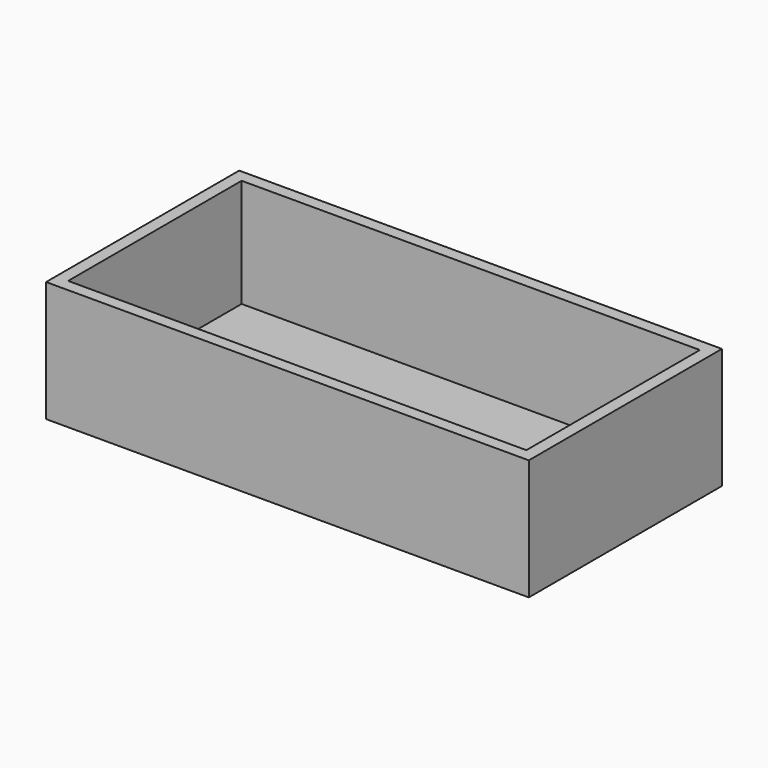
from build123d import *

# Parameters (mm, degrees)
F0_W     = 100
F0_H     = 50
F1_DEPTH = 25
F2_T     = -2.54
F3_R     = 7.874883
F4_DEPTH = 25.4


with BuildPart() as f1:
    # F0 (on Top) → F1 (new body)
    with BuildSketch(Plane.XY):
        Rectangle(F0_W, F0_H)
    extrude(amount=F1_DEPTH)

    # F2
    f2_openings = [f1.faces().sort_by_distance(p)[0] for p in [
        (0, 0, 25),
    ]]
    offset(amount=F2_T, openings=f2_openings)

    # F3 (on face) → F4 (cut)
    with BuildSketch(Plane.YZ.offset(50)):
        with Locations((0, 13.071434)):
            Circle(F3_R)
    extrude(amount=F4_DEPTH, mode=Mode.SUBTRACT)


solid = f1.part
